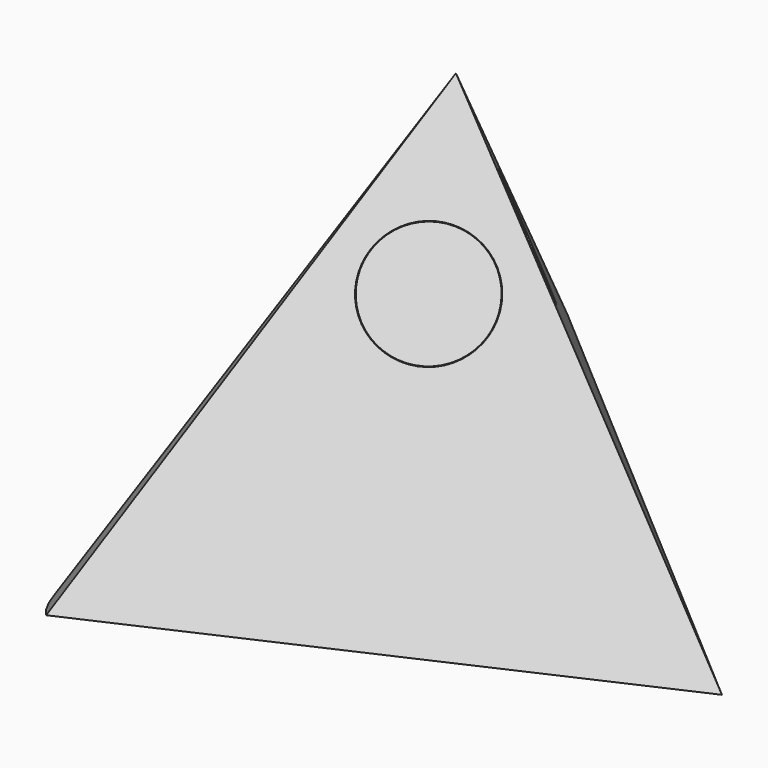
from build123d import *

# Parameters (mm, degrees)
F0_R          = 4.3247644879
F1_ANGLE_BACK = 45
F1_ANGLE      = 90
F2_R          = 4.2849013553
F3_DEPTH      = 1


with BuildPart() as f1:
    # F0 (on Front) → F1 (revolve)
    with BuildSketch(Plane.XZ, mode=Mode.PRIVATE) as f1_sk:
        Polygon((0, 0), (20, 0), (0, 34.6410161514), (-20, 0), align=None)
        with Locations((0, 21.496295929)):
            Circle(F0_R, mode=Mode.SUBTRACT)
    revolve(f1_sk.sketch.rotate(Axis((10, 0, 17.3205080757), (0.5, 0, -0.8660254038)), -F1_ANGLE_BACK), axis=Axis((10, 0, 17.3205080757), (0.5, 0, -0.8660254038)), revolution_arc=F1_ANGLE)


with BuildPart() as f3:
    # F2 (on face) → F3 (new body)
    with BuildSketch(Plane(origin=(7.5, -8.6602540378, 4.3301270189), x_dir=(0.790569415, 0.5477225575, -0.2738612788), z_dir=(0.6123724357, -0.7071067812, 0.3535533906))):
        with Locations((-7.3781014538, 18.00939487)):
            Circle(F2_R)
    extrude(amount=-F3_DEPTH)


solid = Compound([f1.part, f3.part])
